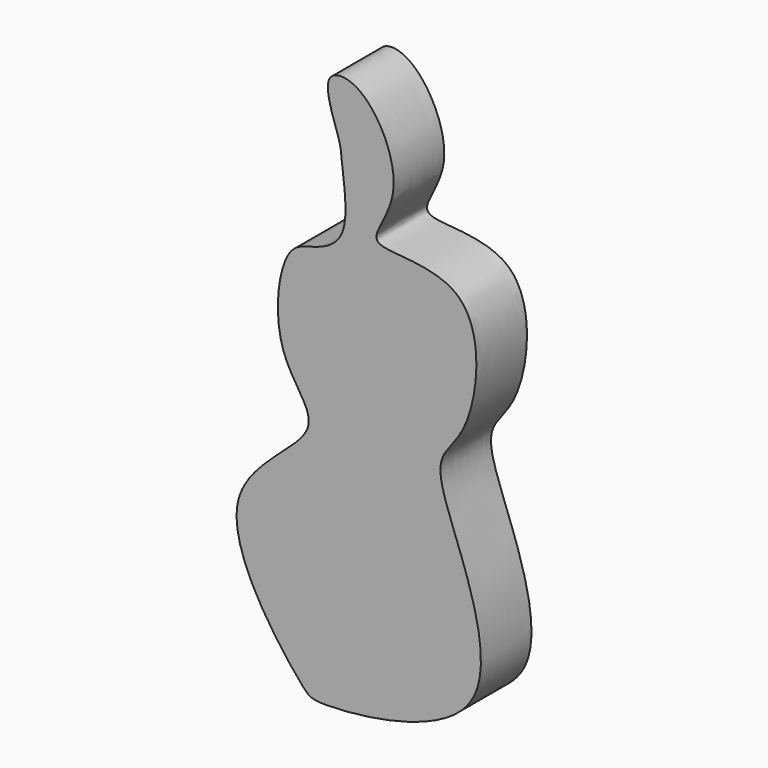
from build123d import *

# Parameters (mm, degrees)
F1_DEPTH = 200


with BuildPart() as f1:
    # F0 (on Front) → F1 (new body)
    with BuildSketch(Plane.XZ):
        with BuildLine():
            add(Edge.make_bspline(
                [(-57.8094646335, 1590.4830694199), (-70.5515380527, 1633.1085680591), (-128.1300782155, 1767.4140214809), (31.5448352108, 1776.5474987906), (172.385289276, 1503.0973975146), (20.7717785027, 1335.7433334549), (148.5527684441, 1327.6590786055), (341.0039433737, 1307.3114521026), (396.1013698196, 1109.2985239906), (347.9797633496, 899.7014476436), (264.6398333098, 821.519825354), (252.0542594083, 698.2184409074), (581.5778104754, 53.6550820587), (-126.0254651871, -12.8115798074), (-171.654196153, 19.5662916038), (-550.6656063372, 507.8504084709), (-51.3896569459, 739.5704106956), (-278.6039214727, 917.7209172867), (-240.4167267661, 1246.5696514297), (-132.5609563547, 1257.7375818413), (-14.044585167, 1315.1571567998), (-50.8476145384, 1527.0924729892), (-49.1629365317, 1561.5582186747), (-57.8094646335, 1590.4830694199)],
                knots=[0, 0, 0, 0, 0.0430686764, 0.0753286831, 0.1323325042, 0.175712479, 0.2061622687, 0.2526957559, 0.2989129371, 0.348909856, 0.3832952661, 0.4203969411, 0.5008660125, 0.577522588, 0.6082174171, 0.6834708192, 0.7485653552, 0.79704293, 0.8551981029, 0.88764302, 0.9236552554, 0.9707744173, 1, 1, 1, 1], degree=3))
        make_face()
    extrude(amount=F1_DEPTH)


solid = f1.part
